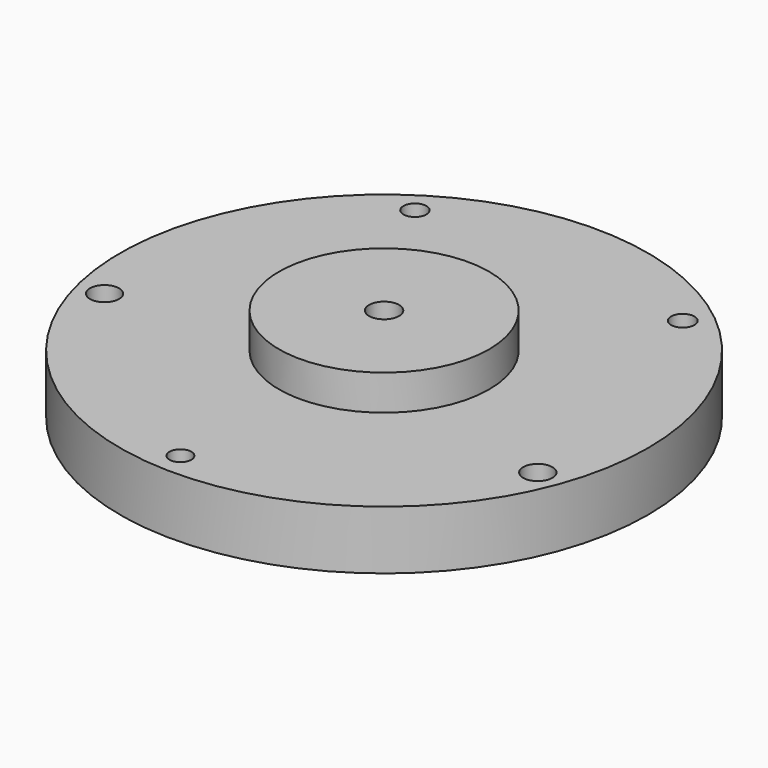
from build123d import *

# Parameters (mm, degrees)
F0_R     = 28.4973743135
F0_R_2   = 1.1784357943
F0_R_3   = 1.5701498245
F0_R_4   = 1.576240135
F0_R_5   = 1.2414958104
F0_R_6   = 11.3501114077
F0_R_7   = 1.2593711331
F0_R_8   = 1.6223324141
F1_DEPTH = 6.35
F2_DEPTH = 3.81


with BuildPart() as f1:
    # F0 (on Top) → F1 (new body)
    with BuildSketch(Plane.XY):
        with Locations((-19.8261514306, 14.424379915)):
            Circle(F0_R)
        with Locations((-21.2354865664, -11.2945793299)):
            Circle(F0_R_2, mode=Mode.SUBTRACT)
        with Locations((-44.7218437205, 7.8171417952)):
            Circle(F0_R_3, mode=Mode.SUBTRACT)
        with Locations((4.1985238439, 5.1364270661)):
            Circle(F0_R_4, mode=Mode.SUBTRACT)
        with Locations((-33.8032003035, 36.0598414301)):
            Circle(F0_R_5, mode=Mode.SUBTRACT)
        with Locations((-19.8261514306, 14.424379915)):
            Circle(F0_R_6, mode=Mode.SUBTRACT)
        with Locations((-3.5687504065, 34.4030686134)):
            Circle(F0_R_7, mode=Mode.SUBTRACT)
        with Locations((-19.8261514306, 14.424379915)):
            Circle(F0_R_6)
        with Locations((-19.8261514306, 14.424379915)):
            Circle(F0_R_8, mode=Mode.SUBTRACT)
    extrude(amount=-F1_DEPTH)

    # F0 (on Top) → F2 (join)
    with BuildSketch(Plane.XY):
        with Locations((-19.8261514306, 14.424379915)):
            Circle(F0_R_6)
        with Locations((-19.8261514306, 14.424379915)):
            Circle(F0_R_8, mode=Mode.SUBTRACT)
    extrude(amount=F2_DEPTH)


solid = f1.part
